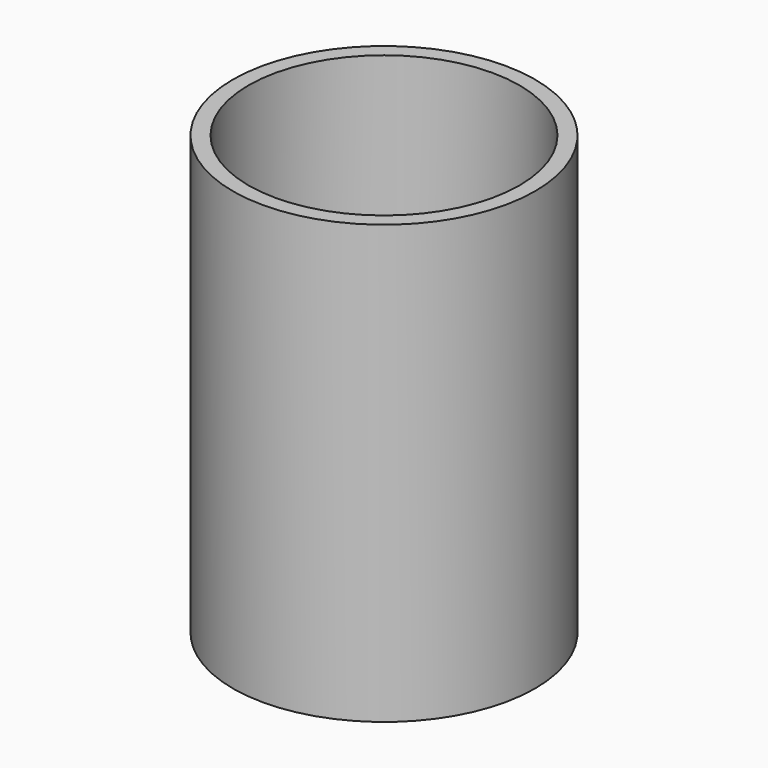
from build123d import *

# Parameters (mm, degrees)
F0_R     = 18.415
F0_R_2   = 16.51
F1_DEPTH = 25.4
F3_R     = 18.415
F3_R_2   = 16.51
F3_R_3   = 15.4378836309
F4_DEPTH = 2.54
F5_R     = 18.415
F5_R_2   = 16.51
F6_DEPTH = 25.4


with BuildPart() as f1:
    # F0 (on Top) → F1 (new body)
    with BuildSketch(Plane.XY):
        Circle(F0_R)
        Circle(F0_R_2, mode=Mode.SUBTRACT)
    extrude(amount=F1_DEPTH)

    # F3 (on offset) → F4 (join)
    with BuildSketch(Plane.XY.offset(25.4)):
        Circle(F3_R)
        Circle(F3_R_2, mode=Mode.SUBTRACT)
        Circle(F3_R_2)
        Circle(F3_R_3, mode=Mode.SUBTRACT)
    extrude(amount=F4_DEPTH)

    # F5 (on face) → F6 (join)
    with BuildSketch(Plane.XY.offset(27.94)):
        Circle(F5_R)
        Circle(F5_R_2, mode=Mode.SUBTRACT)
    extrude(amount=F6_DEPTH)


solid = f1.part
